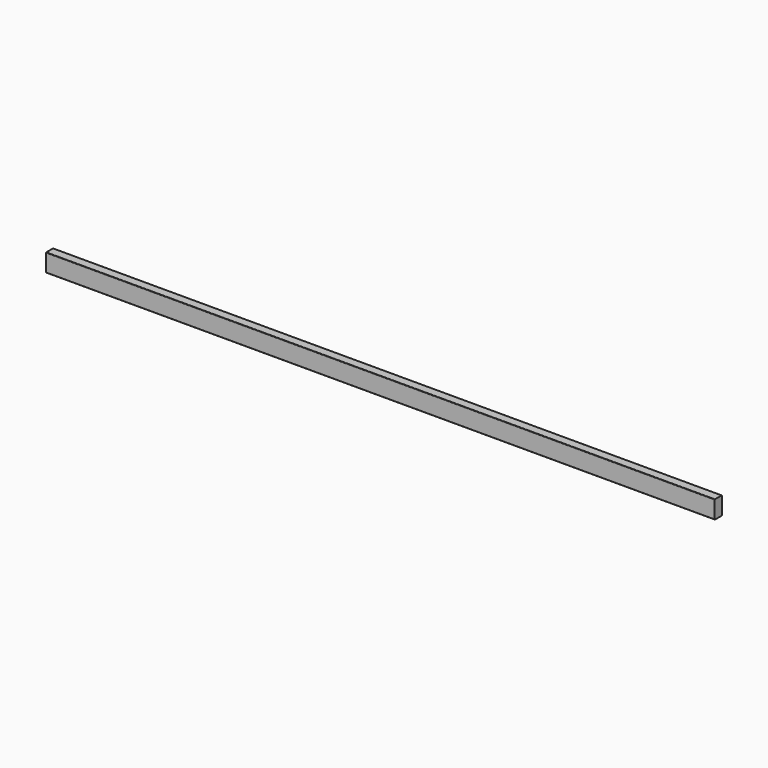
from build123d import *

# Parameters (mm, degrees)
F0_W     = 19
F0_H     = 39
F1_DEPTH = 745


with BuildPart() as f1:
    # F0 (on Right) → F1 (new body, symmetric)
    with BuildSketch(Plane.YZ):
        with BuildLine():
            Line((9, 20), (-9, 20))
            ThreePointArc((-9, 20), (-9.707107, 19.707107), (-10, 19))
            Line((-10, 19), (-10, -19))
            ThreePointArc((-10, -19), (-9.707107, -19.707107), (-9, -20))
            Line((-9, -20), (9, -20))
            ThreePointArc((9, -20), (9.707107, -19.707107), (10, -19))
            Line((10, -19), (10, 19))
            ThreePointArc((10, 19), (9.707107, 19.707107), (9, 20))
        make_face()
        Rectangle(F0_W, F0_H, mode=Mode.SUBTRACT)
        Rectangle(F0_W, F0_H)
    extrude(amount=F1_DEPTH, both=True)


solid = f1.part
